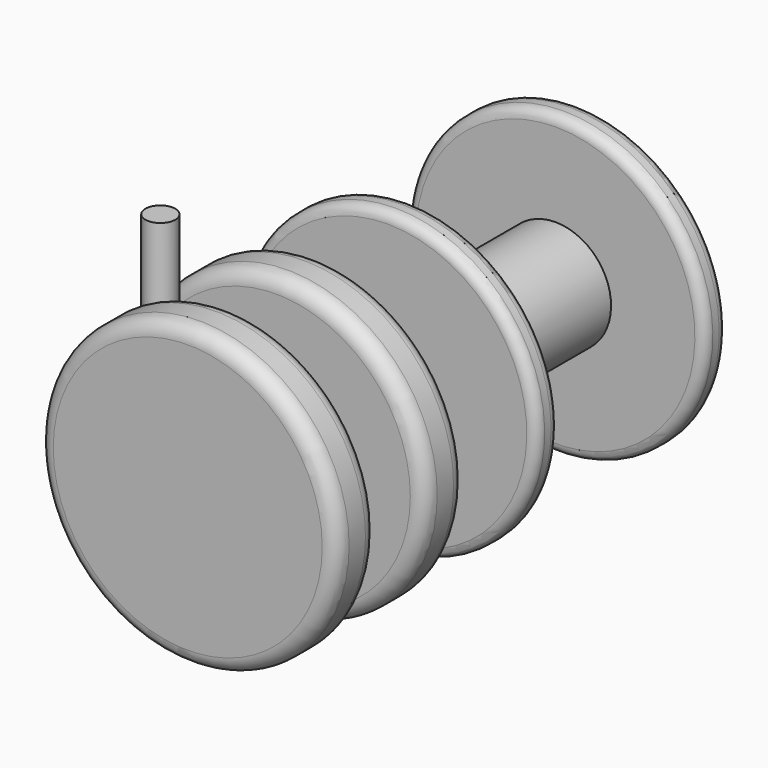
from build123d import *

# Parameters (mm, degrees)
F0_R     = 30
F1_DEPTH = 10.1
F2_R     = 3
F3_R     = 5
F4_DEPTH = 6
F6_W     = 28.5515487194
F6_H     = 25.9389816783
F6_R     = 5
F7_DEPTH = 4
F8_R     = 3
F9_DEPTH = 25


with BuildPart() as f1:
    # F0 (on Front) → F1 (new body)
    with BuildSketch(Plane.XZ):
        Circle(F0_R)
    extrude(amount=-F1_DEPTH)

    # F2
    f2_edges = [f1.edges().sort_by_distance(p)[0] for p in [
        (-30, 10.1, 0),
        (-30, 0, 0),
    ]]
    fillet(f2_edges, radius=F2_R)

    # F3 (on face) → F4 (join)
    with BuildSketch(Plane.XZ):
        Circle(F3_R)
    extrude(amount=F4_DEPTH)


with BuildPart() as f5_1:
    # F5: instance of F1
    add(f1.part.mirror(Plane.XZ.offset(6)))


with BuildPart() as f7:
    # F6 (on face) → F7 (new body, symmetric)
    with BuildSketch(Plane.XZ.offset(6)):
        with Locations((-8.1043570535, -0.4348864313)):
            Rectangle(F6_W, F6_H)
        Circle(F6_R, mode=Mode.SUBTRACT)
    extrude(amount=F7_DEPTH, both=True)

    # F8 (on face) → F9 (join)
    with BuildSketch(Plane.XY.offset(12.5346044078)):
        with Locations((-18.3801314132, -6)):
            Circle(F8_R)
    extrude(amount=F9_DEPTH)


with BuildPart() as f11:
    # F10 (on Right) → F11 (revolve)
    with BuildSketch(Plane.YZ):
        with BuildLine():
            Line((70.1763531864, 11.1570027396), (51.8789514899, 11.1570027396))
            Line((51.8789514899, 11.1570027396), (51.8789514899, 0))
            Line((51.8789514899, 0), (75.7704004645, 0))
            Line((75.7704004645, 0), (75.7704004645, 27.9858823419))
            ThreePointArc((75.7704004645, 27.9858823419), (75.1846140269, 29.4000959042), (73.7704004645, 29.9858823419))
            Line((73.7704004645, 29.9858823419), (72.1763531864, 29.9858823419))
            ThreePointArc((72.1763531864, 29.9858823419), (70.762139624, 29.4000959042), (70.1763531864, 27.9858823419))
            Line((70.1763531864, 27.9858823419), (70.1763531864, 11.1570027396))
        make_face()
        with BuildLine():
            Line((51.8789514899, 0), (51.8789514899, 11.1570027396))
            Line((51.8789514899, 11.1570027396), (33.5815497935, 11.1570027396))
            Line((33.5815497935, 11.1570027396), (33.5815497935, 27.9858823419))
            ThreePointArc((33.5815497935, 27.9858823419), (32.9957633559, 29.4000959042), (31.5815497935, 29.9858823419))
            Line((31.5815497935, 29.9858823419), (29.9875025153, 29.9858823419))
            ThreePointArc((29.9875025153, 29.9858823419), (28.5732889529, 29.4000959042), (27.9875025153, 27.9858823419))
            Line((27.9875025153, 27.9858823419), (27.9875025153, 0))
            Line((27.9875025153, 0), (51.8789514899, 0))
        make_face()
    revolve(axis=Axis((0, 63.8246759772, 0), (0, -1, 0)))


solid = Compound([f1.part, f5_1.part, f7.part, f11.part])
